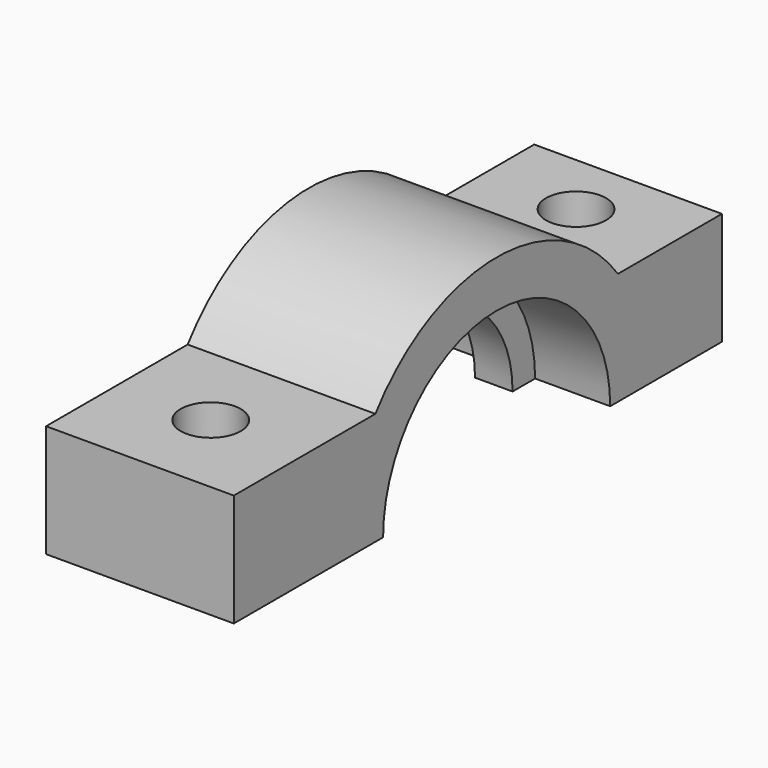
from build123d import *

# Parameters (mm, degrees)
PAD005_DEPTH    = 10
SKETCH015_W     = 4
SKETCH015_H     = 1.5
SKETCH016_R     = 1.6
POCKET003_DEPTH = 10.061


with BuildPart() as part:
    # Sketch014 → Pad005 (new body)
    with BuildSketch(Plane.YZ):
        with BuildLine():
            Line((-17.5, 0), (-6.06, 0))
            ThreePointArc((6.06, 0), (0, 6.06), (-6.06, 0))
            Line((6.06, 0), (15, 0))
            Line((15, 0), (15, 6))
            Line((15, 6), (8.074875, 6))
            ThreePointArc((8.074875, 6), (0, 10.06), (-8.074875, 6))
            Line((-8.074875, 6), (-17.5, 6))
            Line((-17.5, 0), (-17.5, 6))
        make_face()
    extrude(amount=PAD005_DEPTH)

    # Sketch015 → Groove005 (revolve, cut)
    with BuildSketch(Plane.XY):
        with Locations((8, 6.81)):
            Rectangle(SKETCH015_W, SKETCH015_H)
        with Locations((2, 6.81)):
            Rectangle(SKETCH015_W, SKETCH015_H)
    revolve(axis=Axis((0, 0, 0), (1, 0, 0)), mode=Mode.SUBTRACT)

    # Sketch016 → Pocket003 (cut, through all)
    with BuildSketch(Plane.XY):
        with Locations((5, 11.537437)):
            Circle(SKETCH016_R)
        with Locations((5, -12.787437)):
            Circle(SKETCH016_R)
    extrude(amount=POCKET003_DEPTH, mode=Mode.SUBTRACT)


solid = part.part
